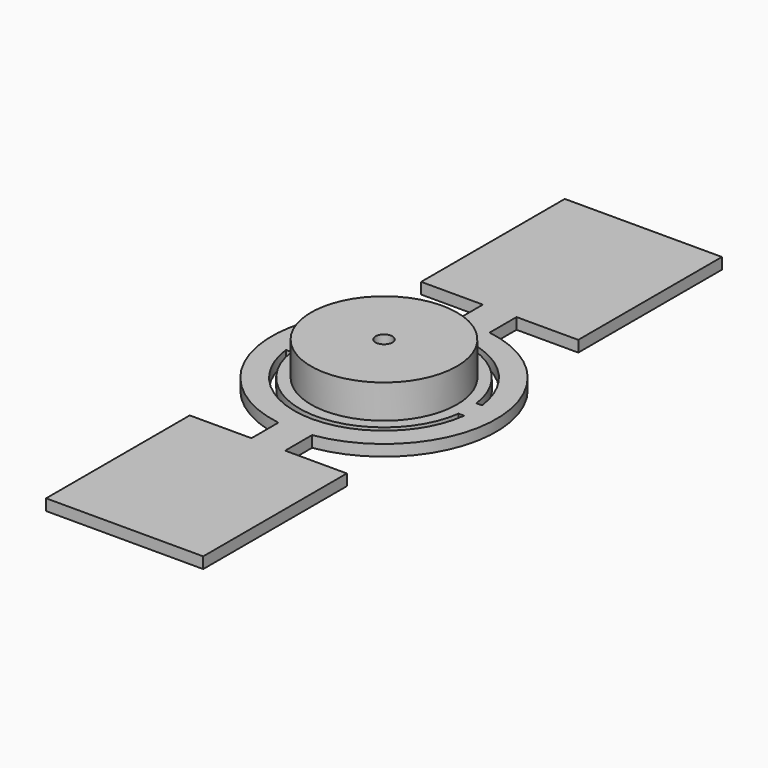
from build123d import *

# Parameters (mm, degrees)
SKETCH043_R     = 6.5
PAD013_DEPTH    = 3
PAD014_DEPTH    = 1
SKETCH057_R     = 0.75
POCKET034_DEPTH = 5


with BuildPart() as part:
    # Sketch043 → Pad013 (new body)
    with BuildSketch(Plane.XY):
        Circle(SKETCH043_R)
    extrude(amount=PAD013_DEPTH)

    # Sketch044 (on Face2 of Pad013) → Pad014 (join)
    with BuildSketch(Plane(origin=(0, 0, 0), x_dir=(1, 0, 0), z_dir=(0, 0, -1))):
        with BuildLine():
            ThreePointArc((-1.5, 9.88686), (-10, 0), (-1.5, -9.88686))
            Line((-1.5, -9.88686), (-1.5, -12.88686))
            Line((-1.5, -12.88686), (-7, -12.88686))
            Line((-7, -12.88686), (-7, -28.88686))
            Line((-7, -28.88686), (7, -28.88686))
            Line((7, -28.88686), (7, -12.88686))
            Line((7, -12.88686), (1.5, -12.88686))
            Line((1.5, -9.88686), (1.5, -12.88686))
            ThreePointArc((1.5, -9.88686), (10, 0), (1.5, 9.88686))
            Line((1.5, 9.88686), (1.5, 12.88686))
            Line((7, 12.88686), (1.5, 12.88686))
            Line((7, 28.88686), (7, 12.88686))
            Line((-7, 28.88686), (7, 28.88686))
            Line((-7, 12.88686), (-7, 28.88686))
            Line((-1.5, 12.88686), (-7, 12.88686))
            Line((-1.5, 9.88686), (-1.5, 12.88686))
        make_face()
        with BuildLine():
            Line((-7.937254, -1), (-7.437254, -1))
            ThreePointArc((-7.437254, -1), (0, -7.504182), (7.437254, -1))
            Line((7.437254, -1), (7.937254, -1))
            ThreePointArc((-7.937254, -1), (0, -8), (7.937254, -1))
        make_face(mode=Mode.SUBTRACT)
        with BuildLine():
            Line((-7.437254, 1), (-7.937254, 1))
            ThreePointArc((7.937254, 1), (0, 8), (-7.937254, 1))
            Line((7.437254, 1), (7.937254, 1))
            ThreePointArc((7.437254, 1), (0, 7.504182), (-7.437254, 1))
        make_face(mode=Mode.SUBTRACT)
    extrude(amount=PAD014_DEPTH)

    # Sketch057 (on Face3 of Pad014) → Pocket034 (cut)
    with BuildSketch(Plane.XY.offset(3)):
        Circle(SKETCH057_R)
    extrude(amount=-POCKET034_DEPTH, mode=Mode.SUBTRACT)


with BuildPart() as part_1:
    # Body013 placement: moved
    add(part.part.moved(Location((198, 0, 0))))


solid = part_1.part
